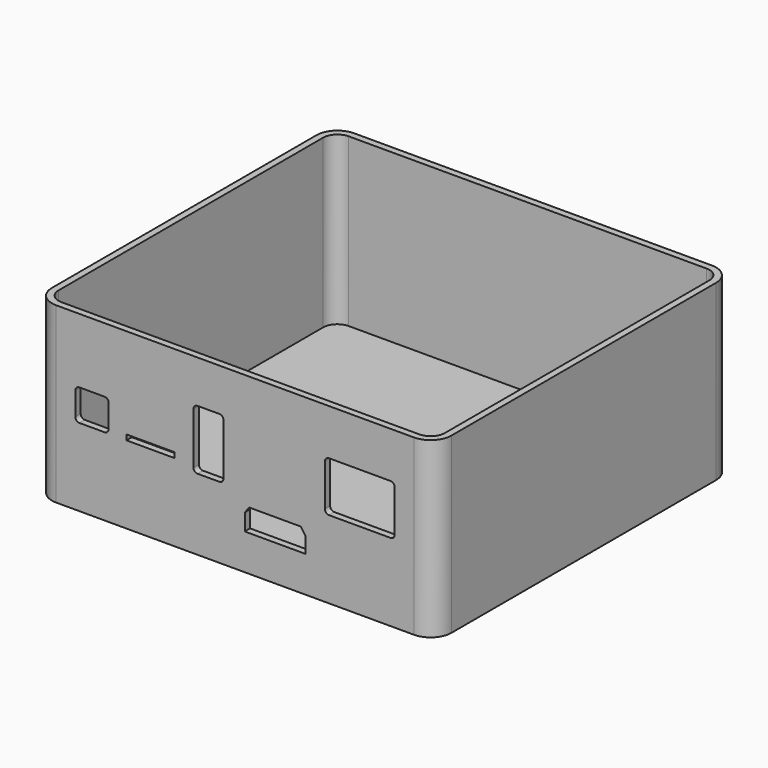
from build123d import *

# Parameters (mm, degrees)
SKETCH004_W       = 11.5
SKETCH004_H       = 1.25
PAD003_DEPTH      = 3.2
PAD005_DEPTH      = 40
PAD005_DEPTH_BACK = 1.6
THICKNESS001_T    = -1.6


with BuildPart() as pad003:
    # Sketch004 → Pad003 (new body)
    with BuildSketch(Plane.XZ.offset(46.2)):
        with BuildLine():
            Line((22.5, 29), (37.25, 29))
            ThreePointArc((38.25, 28), (37.957107, 28.707107), (37.25, 29))
            Line((38.25, 28), (38.25, 18))
            ThreePointArc((37.25, 17), (37.957107, 17.292893), (38.25, 18))
            Line((37.25, 17), (22.5, 17))
            ThreePointArc((21.5, 18), (21.792893, 17.292893), (22.5, 17))
            Line((21.5, 18), (21.5, 28))
            ThreePointArc((22.5, 29), (21.792893, 28.707107), (21.5, 28))
        make_face()
        with BuildLine():
            Line((-8.95, 29.8), (-3.75, 29.8))
            ThreePointArc((-2.75, 28.8), (-3.042893, 29.507107), (-3.75, 29.8))
            Line((-2.75, 28.8), (-2.75, 16.5))
            ThreePointArc((-3.75, 15.5), (-3.042893, 15.792893), (-2.75, 16.5))
            Line((-3.75, 15.5), (-8.95, 15.5))
            ThreePointArc((-9.95, 16.5), (-9.657107, 15.792893), (-8.95, 15.5))
            Line((-9.95, 16.5), (-9.95, 28.8))
            ThreePointArc((-8.95, 29.8), (-9.657107, 29.507107), (-9.95, 28.8))
        make_face()
        with BuildLine():
            Line((-37.25, 24.5), (-31.25, 24.5))
            ThreePointArc((-30.25, 23.5), (-30.542893, 24.207107), (-31.25, 24.5))
            Line((-30.25, 23.5), (-30.25, 18))
            ThreePointArc((-31.25, 17), (-30.542893, 17.292893), (-30.25, 18))
            Line((-31.25, 17), (-37.25, 17))
            ThreePointArc((-38.25, 18), (-37.957107, 17.292893), (-37.25, 17))
            Line((-38.25, 18), (-38.25, 23.5))
            ThreePointArc((-37.25, 24.5), (-37.957107, 24.207107), (-38.25, 23.5))
        make_face()
        with Locations((-20.25, 17.625)):
            Rectangle(SKETCH004_W, SKETCH004_H)
        Polygon((2.333401, 7), (2.333401, 11.006851), (3.391764, 12.4), (15.751917, 12.4), (16.833401, 10.855655), (16.833401, 7), align=None)
    extrude(amount=-PAD003_DEPTH)


with BuildPart() as cut001:
    # Sketch006 → Pad005 (new body, two sides)
    with BuildSketch(Plane.XY) as pad005_sk:
        with BuildLine():
            Line((-42.85, 44.6), (42.85, 44.6))
            ThreePointArc((47.85, 39.6), (46.385534, 43.135534), (42.85, 44.6))
            Line((47.85, 39.6), (47.85, -39.6))
            ThreePointArc((42.85, -44.6), (46.385534, -43.135534), (47.85, -39.6))
            Line((42.85, -44.6), (-42.85, -44.6))
            ThreePointArc((-47.85, -39.6), (-46.385534, -43.135534), (-42.85, -44.6))
            Line((-47.85, -39.6), (-47.85, 39.6))
            ThreePointArc((-42.85, 44.6), (-46.385534, 43.135534), (-47.85, 39.6))
        make_face()
    extrude(amount=PAD005_DEPTH)
    extrude(pad005_sk.sketch, amount=-PAD005_DEPTH_BACK)

    # Thickness001
    thickness001_openings = [cut001.faces().sort_by_distance(p)[0] for p in [
        (0, 0, 40),
    ]]
    offset(amount=THICKNESS001_T, openings=thickness001_openings)

    # Cut001: cut Pad003
    add(pad003.part, mode=Mode.SUBTRACT)


solid = cut001.part
